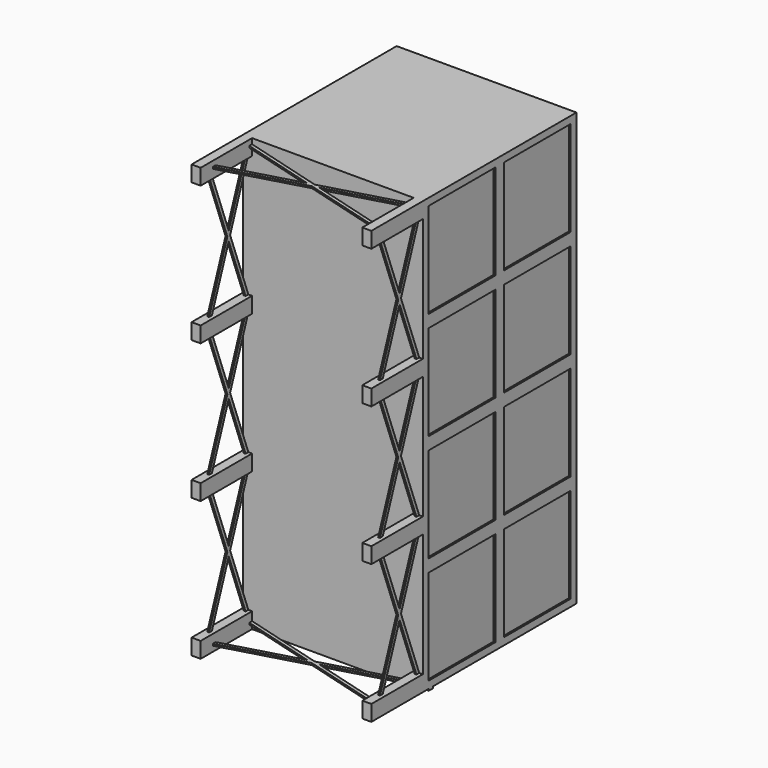
from build123d import *

# Parameters (mm, degrees)
F0_W      = 3590
F0_H      = 6055
F1_DEPTH  = 2518
F2_W      = 2518
F2_H      = 70
F3_DEPTH  = 25
F4_W      = 2358
F4_H      = 5895
F5_DEPTH  = 2514.7
F7_DEPTH  = 900
F9_START  = -50
F9_DEPTH  = 25
F11_START = -50
F11_DEPTH = 25
F13_START = -75
F13_DEPTH = 25
F15_START = -75
F15_DEPTH = 25
F16_W     = 1170.9156382799
F16_H     = 1332.7020907402
F17_DEPTH = 25
F18_W     = 1170.9156382799
F18_H     = 1332.7020907402
F19_DEPTH = 25


with BuildPart() as f1:
    # F0 (on Right) → F1 (new body)
    with BuildSketch(Plane.YZ):
        with Locations((6517.935005498, 199.2385983467)):
            Rectangle(F0_W, F0_H)
    extrude(amount=F1_DEPTH)

    # F2 (on face) → F3 (join)
    with BuildSketch(Plane(origin=(0, 0, -2828.2614016533), x_dir=(1, 0, 0), z_dir=(0, 0, -1))):
        with Locations((1259, -5763.235005498)):
            Rectangle(F2_W, F2_H)
    extrude(amount=F3_DEPTH)

    # F4 (on face) → F5 (cut, through all)
    with BuildSketch(Plane(origin=(0, 8312.935005498, 0), x_dir=(-1, 0, 0), z_dir=(0, 1, 0))):
        with Locations((-1259, 199.2385983467)):
            Rectangle(F4_W, F4_H)
    extrude(amount=-F5_DEPTH, mode=Mode.SUBTRACT)

    # F6 (on face) → F7 (cut)
    with BuildSketch(Plane.XZ.offset(-4722.935005498)):
        Polygon((2391.0046898127, 3226.7385983467), (126.9953101873, 3226.7385983467), (126.9953101873, 3005.3625106812), (0, 3005.3625106812), (0, 1282.1972942352), (126.9953101873, 1282.1972942352), (126.9953101873, 1060.8212065697), (0, 1060.8212065697), (0, -662.3440098763), (126.9953101873, -662.3440098763), (126.9953101873, -883.7200975418), (0, -883.7200975418), (0, -2606.8853139877), (126.9953101873, -2606.8853139877), (126.9953101873, -2828.2614016533), (2391.0046898127, -2828.2614016533), (2391.0046898127, -2606.8853139877), (2518, -2606.8853139877), (2518, -883.7200975418), (2391.0046898127, -883.7200975418), (2391.0046898127, -662.3440098763), (2518, -662.3440098763), (2518, 1060.8212065697), (2391.0046898127, 1060.8212065697), (2391.0046898127, 1282.1972942352), (2518, 1282.1972942352), (2518, 3005.3625106812), (2391.0046898127, 3005.3625106812), align=None)
    extrude(amount=-F7_DEPTH, mode=Mode.SUBTRACT)

    # F8 (on face) → F9 (join)
    with BuildSketch(Plane(origin=(0, 0, 0), x_dir=(0, -1, 0), z_dir=(-1, 0, 0)).offset(F9_START)):
        Polygon((-5279.4843906223, 264.6877021164), (-5303.7322503686, 199.2385983467), (-5279.4843906223, 133.789494577), (-5255.236530876, 199.2385983467), align=None)
        Polygon((-5279.4843906223, 2209.2290062279), (-5303.7322503686, 2143.7799024582), (-5279.4843906223, 2078.3307986885), (-5255.236530876, 2143.7799024582), align=None)
        Polygon((-5574.4392860054, -662.3440098763), (-5279.4843906223, 133.789494577), (-5303.7322503686, 199.2385983467), (-5622.935005498, -662.3440098763), align=None)
        Polygon((-4984.5294952393, -662.3440098763), (-4936.0337757467, -662.3440098763), (-5255.236530876, 199.2385983467), (-5279.4843906223, 133.789494577), align=None)
        Polygon((-5303.7322503686, 199.2385983467), (-5279.4843906223, 264.6877021164), (-5574.4392860054, 1060.8212065697), (-5622.935005498, 1060.8212065697), align=None)
        Polygon((-5279.4843906223, 264.6877021164), (-5255.236530876, 199.2385983467), (-4936.0337757467, 1060.8212065697), (-4984.5294952393, 1060.8212065697), align=None)
        Polygon((-5574.4392860054, 1282.1972942352), (-5279.4843906223, 2078.3307986885), (-5303.7322503686, 2143.7799024582), (-5622.935005498, 1282.1972942352), align=None)
        Polygon((-5303.7322503686, 2143.7799024582), (-5279.4843906223, 2209.2290062279), (-5574.4392860054, 3005.3625106812), (-5622.935005498, 3005.3625106812), align=None)
        Polygon((-5279.4843906223, 2209.2290062279), (-5255.236530876, 2143.7799024582), (-4936.0337757467, 3005.3625106812), (-4984.5294952393, 3005.3625106812), align=None)
        Polygon((-4984.5294952393, 1282.1972942352), (-4936.0337757467, 1282.1972942352), (-5255.236530876, 2143.7799024582), (-5279.4843906223, 2078.3307986885), align=None)
        Polygon((-5303.7322503686, -1745.3027057648), (-5622.935005498, -2606.8853139877), (-5574.4392860054, -2606.8853139877), (-5279.4843906223, -1810.7518095345), (-4984.5294952393, -2606.8853139877), (-4936.0337757467, -2606.8853139877), (-5255.236530876, -1745.3027057648), (-4936.0337757467, -883.7200975418), (-4984.5294952393, -883.7200975418), (-5279.4843906223, -1679.8536019951), (-5574.4392860054, -883.7200975418), (-5622.935005498, -883.7200975418), align=None)
    extrude(amount=-F9_DEPTH)

    # F10 (on face) → F11 (join)
    with BuildSketch(Plane.YZ.offset(2518).offset(F11_START)):
        Polygon((5574.4392860054, 3005.3625106812), (5279.4843906223, 2209.2290062279), (4984.5294952393, 3005.3625106812), (4936.0337757467, 3005.3625106812), (5255.236530876, 2143.7799024582), (4936.0337757467, 1282.1972942352), (4984.5294952393, 1282.1972942352), (5279.4843906223, 2078.3307986885), (5574.4392860054, 1282.1972942352), (5622.935005498, 1282.1972942352), (5303.7322503686, 2143.7799024582), (5622.935005498, 3005.3625106812), align=None)
        Polygon((4984.5294952393, 1060.8212065697), (4936.0337757467, 1060.8212065697), (5255.236530876, 199.2385983467), (4936.0337757467, -662.3440098763), (4984.5294952393, -662.3440098763), (5279.4843906223, 133.789494577), (5574.4392860054, -662.3440098763), (5622.935005498, -662.3440098763), (5303.7322503686, 199.2385983467), (5622.935005498, 1060.8212065697), (5574.4392860054, 1060.8212065697), (5279.4843906223, 264.6877021164), align=None)
        Polygon((4984.5294952393, -883.7200975418), (4936.0337757467, -883.7200975418), (5255.236530876, -1745.3027057648), (4936.0337757467, -2606.8853139877), (4984.5294952393, -2606.8853139877), (5279.4843906223, -1810.7518095345), (5574.4392860054, -2606.8853139877), (5622.935005498, -2606.8853139877), (5303.7322503686, -1745.3027057648), (5622.935005498, -883.7200975418), (5574.4392860054, -883.7200975418), (5279.4843906223, -1679.8536019951), align=None)
    extrude(amount=-F11_DEPTH)

    # F12 (on face) → F13 (join)
    with BuildSketch(Plane.XY.offset(3226.7385983467).offset(F13_START)):
        Polygon((1344.9913973474, 5279.4843906223), (1259, 5303.7322503686), (1173.0086026526, 5279.4843906223), (1259, 5255.236530876), align=None)
        Polygon((1259, 5303.7322503686), (126.9953101873, 5622.935005498), (126.9953101873, 5574.4392860054), (1173.0086026526, 5279.4843906223), align=None)
        Polygon((2391.0046898127, 5622.935005498), (1259, 5303.7322503686), (1344.9913973474, 5279.4843906223), (2391.0046898127, 5574.4392860054), align=None)
        Polygon((1259, 5255.236530876), (1173.0086026526, 5279.4843906223), (126.9953101873, 4984.5294952393), (126.9953101873, 4936.0337757467), align=None)
        Polygon((2391.0046898127, 4984.5294952393), (1344.9913973474, 5279.4843906223), (1259, 5255.236530876), (2391.0046898127, 4936.0337757467), align=None)
    extrude(amount=-F13_DEPTH)

    # F14 (on face) → F15 (join)
    with BuildSketch(Plane(origin=(0, 0, -2828.2614016533), x_dir=(1, 0, 0), z_dir=(0, 0, -1)).offset(F15_START)):
        Polygon((126.9953101873, -5574.4392860054), (126.9953101873, -5622.935005498), (1259, -5303.7322503686), (2391.0046898127, -5622.935005498), (2391.0046898127, -5574.4392860054), (1344.9913973474, -5279.4843906223), (2391.0046898127, -4984.5294952393), (2391.0046898127, -4936.0337757467), (1259, -5255.236530876), (126.9953101873, -4936.0337757467), (126.9953101873, -4984.5294952393), (1173.0086026526, -5279.4843906223), align=None)
    extrude(amount=-F15_DEPTH)

    # F16 (on face) → F17 (cut)
    with BuildSketch(Plane(origin=(0, 0, 0), x_dir=(0, -1, 0), z_dir=(-1, 0, 0))):
        with Locations((-6308.3928246379, 2460.3875529766)):
            Rectangle(F16_W, F16_H)
        Polygon((-6893.8506437779, -1395.5593109131), (-6893.8506437779, -2728.2614016533), (-5798.235005498, -2728.2614016533), (-5722.935005498, -2728.2614016533), (-5722.935005498, -1395.5593109131), align=None)
        with Locations((-7627.477186358, -2061.9103562832)):
            Rectangle(F16_W, F16_H)
        with Locations((-7627.477186358, -554.4777198633)):
            Rectangle(F16_W, F16_H)
        with Locations((-7627.477186358, 952.9549165567)):
            Rectangle(F16_W, F16_H)
        with Locations((-7627.477186358, 2460.3875529766)):
            Rectangle(F16_W, F16_H)
        with Locations((-6308.3928246379, -554.4777198633)):
            Rectangle(F16_W, F16_H)
        with Locations((-6308.3928246379, 952.9549165567)):
            Rectangle(F16_W, F16_H)
    extrude(amount=-F17_DEPTH, mode=Mode.SUBTRACT)

    # F18 (on face) → F19 (cut)
    with BuildSketch(Plane.YZ.offset(2518)):
        with Locations((7627.477186358, -554.4777198633)):
            Rectangle(F18_W, F18_H)
        with Locations((7627.477186358, -2061.9103562832)):
            Rectangle(F18_W, F18_H)
        with Locations((6308.3928246379, -2061.9103562832)):
            Rectangle(F18_W, F18_H)
        with Locations((6308.3928246379, -554.4777198633)):
            Rectangle(F18_W, F18_H)
        with Locations((6308.3928246379, 952.9549165567)):
            Rectangle(F18_W, F18_H)
        with Locations((7627.477186358, 952.9549165567)):
            Rectangle(F18_W, F18_H)
        with Locations((7627.477186358, 2460.3875529766)):
            Rectangle(F18_W, F18_H)
        with Locations((6308.3928246379, 2460.3875529766)):
            Rectangle(F18_W, F18_H)
    extrude(amount=-F19_DEPTH, mode=Mode.SUBTRACT)


solid = f1.part
